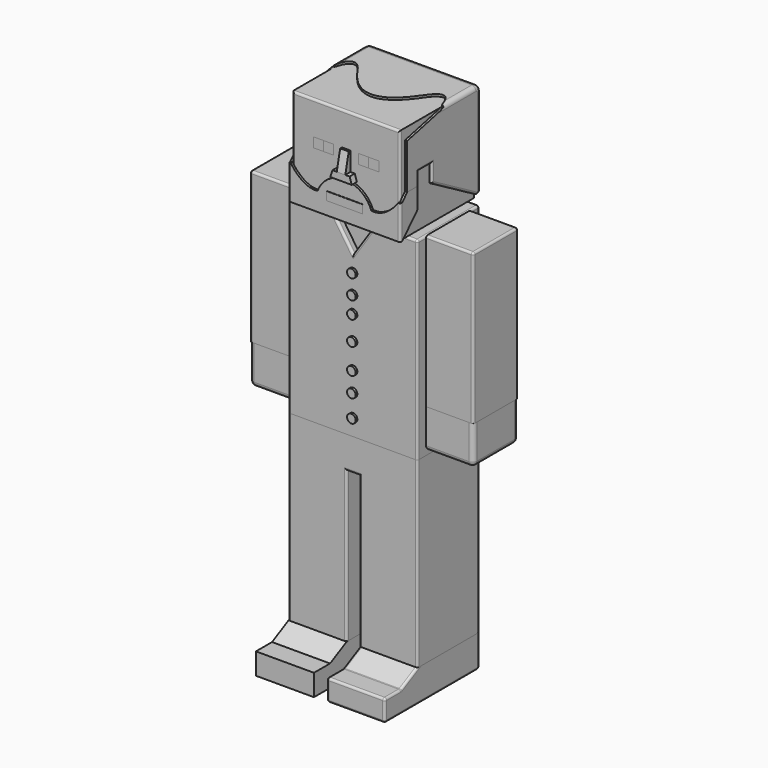
from build123d import *

# Parameters (mm, degrees)
SKETCH_W             = 60
SKETCH_H             = 90
PAD_DEPTH            = 36
POCKET_DEPTH         = 5
POCKET_TAPER         = -9
FILLET018_R          = 1
PAD001_DEPTH         = 2
SKETCH003_R          = 2
PAD002_DEPTH         = 3
SKETCH004_W          = 50
SKETCH004_H          = 45
PAD003_DEPTH         = 43
SKETCH030_W          = 9.4
SKETCH030_H          = 4.5
POCKET014_DEPTH      = 1
FILLET024_R          = 1
SKETCH005_W          = 52
SKETCH005_H          = 46
PAD004_DEPTH         = 43
POCKET001_DEPTH      = 5
POCKET002_DEPTH      = 52.001
SKETCH009_W          = 1
SKETCH009_H          = 21.5
POCKET003_DEPTH      = 8
POCKET004_DEPTH      = 52.001
SKETCH011_W          = 1
SKETCH011_H          = 21.5
POCKET005_DEPTH      = 5
FILLET005_R          = 3
FILLET006_R          = 2
FILLET007_R          = 1
FILLET022_R          = 1
FILLET023_R          = 1
SKETCH012_W          = 22
SKETCH012_H          = 70
PAD005_DEPTH         = 26
FILLET016_R          = 1
FILLET017_R          = 1
SKETCH013_W          = 22
SKETCH013_H          = 18
PAD006_DEPTH         = 26
FILLET014_R          = 2
FILLET015_R          = 2
PAD007_DEPTH         = 36
FILLET012_R          = 1
FILLET013_R          = 1
PAD008_DEPTH         = 27
FILLET_R             = 1
PAD009_DEPTH         = 27
SKETCH018_W          = 52
SKETCH018_H          = 47
PAD010_DEPTH         = 43
POCKET006_DEPTH      = 100
POCKET007_DEPTH      = 26.001
POCKET007_DEPTH_BACK = 26.001
POCKET008_DEPTH      = 1
POCKET009_DEPTH      = 1
SKETCH024_W          = 50
SKETCH024_H          = 10.65
POCKET010_DEPTH      = 19.001
SKETCH025_W          = 16.8
SKETCH025_H          = 4
POCKET011_DEPTH      = 5
FILLET020_R          = 1
FILLET021_R          = 1
PAD011_DEPTH         = 3
POCKET012_DEPTH      = 5
POCKET013_DEPTH      = 5
SKETCH031_W          = 4.7
SKETCH031_H          = 4.5
PAD012_DEPTH         = 1
SKETCH032_W          = 4.75
SKETCH032_H          = 4.5
PAD013_DEPTH         = 1
SKETCH033_W          = 16.8
SKETCH033_H          = 3.9
PAD014_DEPTH         = 1


with BuildPart() as obj1:
    # Sketch → Pad (new body)
    with BuildSketch(Plane.XZ):
        Rectangle(SKETCH_W, SKETCH_H)
    extrude(amount=PAD_DEPTH)

    # Sketch001 (on Face6 of Pad) → Pocket (cut)
    with BuildSketch(Plane.XZ.offset(36)):
        Polygon((-10, 45), (0, 30), (10, 45), align=None)
    extrude(amount=-POCKET_DEPTH, taper=POCKET_TAPER, mode=Mode.SUBTRACT)

    # Fillet018
    fillet018_edges = [obj1.edges().sort_by_distance(p)[0] for p in [
        (-20, -36, 45),
        (-5, -36, 37.5),
        (5, -36, 37.5),
        (20, -36, 45),
        (30, -36, 0),
        (-30, -36, 0),
        (30, -18, 45),
        (0, 0, 45),
        (30, 0, 0),
        (-30, 0, 0),
    ]]
    fillet(fillet018_edges, radius=FILLET018_R)


with BuildPart() as obj2:
    # Sketch002 → Pad001 (new body)
    with BuildSketch(Plane.XZ):
        Polygon((-10, 45), (10, 45), (0, 30), align=None)
    extrude(amount=PAD001_DEPTH)


with BuildPart() as obj2_1:
    # Body001 placement: moved
    add(obj2.part.moved(Location((0, -31, 0))))


with BuildPart() as obj3:
    # Sketch003 → Pad002 (new body)
    with BuildSketch(Plane.XZ):
        with Locations((0, 22.21)):
            Circle(SKETCH003_R)
        with Locations((0, 13.18)):
            Circle(SKETCH003_R)
        with Locations((0, 5.32)):
            Circle(SKETCH003_R)
        with Locations((0, -5.83)):
            Circle(SKETCH003_R)
        with Locations((0, -17.73)):
            Circle(SKETCH003_R)
        with Locations((0, -26.91)):
            Circle(SKETCH003_R)
        with Locations((0, -37.26)):
            Circle(SKETCH003_R)
    extrude(amount=PAD002_DEPTH)


with BuildPart() as obj3_1:
    # Body002 placement: moved
    add(obj3.part.moved(Location((0, -34, 0))))


with BuildPart() as head:
    # Sketch004 → Pad003 (new body)
    with BuildSketch(Plane.XZ):
        with Locations((0, 67.5)):
            Rectangle(SKETCH004_W, SKETCH004_H)
    extrude(amount=PAD003_DEPTH)

    # Sketch030 (on Face6 of Pad003) → Pocket014 (cut)
    with BuildSketch(Plane.XZ.offset(43)):
        with Locations((-10.522104, 72.25)):
            Rectangle(SKETCH030_W, SKETCH030_H)
        with Locations((10.522104, 72.25)):
            Rectangle(SKETCH030_W, SKETCH030_H)
    extrude(amount=-POCKET014_DEPTH, mode=Mode.SUBTRACT)

    # Fillet024
    fillet024_edges = [head.edges().sort_by_distance(p)[0] for p in [
        (-25, -43, 67.5),
        (0, -43, 90),
        (25, -43, 67.5),
    ]]
    fillet(fillet024_edges, radius=FILLET024_R)


with BuildPart() as head_1:
    # Body003 placement: moved
    add(head.part.moved(Location((0, 3, 0))))


with BuildPart() as hair:
    # Sketch005 → Pad004 (new body)
    with BuildSketch(Plane.XZ):
        with Locations((0, 68)):
            Rectangle(SKETCH005_W, SKETCH005_H)
    extrude(amount=PAD004_DEPTH)

    # Sketch007 (on Face4 of Pad004) → Pocket001 (cut)
    with BuildSketch(Plane(origin=(0, 0, 91), x_dir=(-1, 0, 0), z_dir=(0, 0, 1))):
        with BuildLine():
            add(Edge.make_bspline(
                [(-15.5, 20), (0, 43), (15.5, 20)],
                knots=[0, 0, 0, 1, 1, 1], degree=2))
            add(Edge.make_bspline(
                [(15.5, 20), (21.875217, 10.54), (25, 21.5)],
                knots=[0, 0, 0, 1, 1, 1], degree=2))
            Line((25, 21.5), (25, 43))
            Line((25, 43), (-25, 43))
            Line((-25, 43), (-25, 21.5))
            add(Edge.make_bspline(
                [(-15.5, 20), (-21.875217, 10.54), (-25, 21.5)],
                knots=[0, 0, 0, 1, 1, 1], degree=2))
        make_face()
    extrude(amount=-POCKET001_DEPTH, mode=Mode.SUBTRACT)

    # Sketch008 (on Face1 of Pocket001) → Pocket002 (cut, through all)
    with BuildSketch(Plane(origin=(-26, 0, 0), x_dir=(0, 0, -1), z_dir=(-1, 0, 0))):
        Polygon((-63.99, 43), (-63.99, 36.91), (-69.95, 36.91), (-69.95, 28.72), (-61.59, 28.72), (-45, 0), (-45, 43), align=None)
    extrude(amount=-POCKET002_DEPTH, mode=Mode.SUBTRACT)

    # Sketch009 (on Face10 of Pocket002) → Pocket003 (cut)
    with BuildSketch(Plane(origin=(26, 0, 0), x_dir=(0, 0, 1), z_dir=(1, 0, 0))):
        with Locations((90.5, 32.25)):
            Rectangle(SKETCH009_W, SKETCH009_H)
    extrude(amount=-POCKET003_DEPTH, mode=Mode.SUBTRACT)

    # Sketch010 (on Face10 of Pocket003) → Pocket004 (cut, through all)
    with BuildSketch(Plane(origin=(26, 0, 0), x_dir=(0, 0, 1), z_dir=(1, 0, 0))):
        Polygon((85, 43), (90, 21.5), (90, 43), align=None)
    extrude(amount=-POCKET004_DEPTH, mode=Mode.SUBTRACT)

    # Sketch011 (on Face1 of Pocket004) → Pocket005 (cut)
    with BuildSketch(Plane(origin=(-26, 0, 0), x_dir=(0, 0, -1), z_dir=(-1, 0, 0))):
        with Locations((-90.5, 32.25)):
            Rectangle(SKETCH011_W, SKETCH011_H)
    extrude(amount=-POCKET005_DEPTH, mode=Mode.SUBTRACT)

    # Fillet005
    fillet005_edges = [hair.edges().sort_by_distance(p)[0] for p in [
        (0, 0, 91),
    ]]
    fillet(fillet005_edges, radius=FILLET005_R)

    # Fillet006
    fillet006_edges = [hair.edges().sort_by_distance(p)[0] for p in [
        (-26, 0, 66.5),
        (-26, -12.25, 91),
        (26, -12.25, 91),
        (26, 0, 66.5),
        (0, 0, 45),
    ]]
    fillet(fillet006_edges, radius=FILLET006_R)

    # Fillet007
    fillet007_edges = [hair.edges().sort_by_distance(p)[0] for p in [
        (26, -28.72, 65.77),
        (26, -15.860192, 54.16158),
    ]]
    fillet(fillet007_edges, radius=FILLET007_R)

    # Fillet022
    fillet022_edges = [hair.edges().sort_by_distance(p)[0] for p in [
        (26, -32.815, 69.95),
    ]]
    fillet(fillet022_edges, radius=FILLET022_R)

    # Fillet023
    fillet023_edges = [hair.edges().sort_by_distance(p)[0] for p in [
        (-26, -15.860192, 54.16158),
        (-26, -28.72, 65.77),
        (-26, -32.815, 69.95),
    ]]
    fillet(fillet023_edges, radius=FILLET023_R)


with BuildPart() as hair_1:
    # Body004 placement: moved
    add(hair.part.moved(Location((0, 6, 0))))


with BuildPart() as obj4:
    # Sketch012 → Pad005 (new body)
    with BuildSketch(Plane.XZ):
        with Locations((41, 0)):
            Rectangle(SKETCH012_W, SKETCH012_H)
        with Locations((-41, 0)):
            Rectangle(SKETCH012_W, SKETCH012_H)
    extrude(amount=PAD005_DEPTH)

    # Fillet016
    fillet016_edges = [obj4.edges().sort_by_distance(p)[0] for p in [
        (52, -13, 35),
        (41, 0, 35),
        (41, -26, 35),
        (52, 0, 0),
        (52, -26, 0),
    ]]
    fillet(fillet016_edges, radius=FILLET016_R)

    # Fillet017
    fillet017_edges = [obj4.edges().sort_by_distance(p)[0] for p in [
        (-41, -26, 35),
        (-52, -13, 35),
        (-52, -26, 0),
        (-52, 0, 0),
        (-41, 0, 35),
    ]]
    fillet(fillet017_edges, radius=FILLET017_R)


with BuildPart() as obj4_1:
    # Body005 placement: moved
    add(obj4.part.moved(Location((0, -5, 10))))


with BuildPart() as arms:
    # Sketch013 → Pad006 (new body)
    with BuildSketch(Plane.XZ):
        with Locations((-41, -34)):
            Rectangle(SKETCH013_W, SKETCH013_H)
        with Locations((41, -34)):
            Rectangle(SKETCH013_W, SKETCH013_H)
    extrude(amount=PAD006_DEPTH)

    # Fillet014
    fillet014_edges = [arms.edges().sort_by_distance(p)[0] for p in [
        (-41, -26, -43),
        (-52, -26, -34),
        (-52, -13, -43),
        (-52, 0, -34),
        (-41, 0, -43),
    ]]
    fillet(fillet014_edges, radius=FILLET014_R)

    # Fillet015
    fillet015_edges = [arms.edges().sort_by_distance(p)[0] for p in [
        (41, -26, -43),
        (52, -26, -34),
        (52, -13, -43),
        (52, 0, -34),
        (41, 0, -43),
    ]]
    fillet(fillet015_edges, radius=FILLET015_R)


with BuildPart() as arms_1:
    # Body006 placement: moved
    add(arms.part.moved(Location((0, -5, 0))))


with BuildPart() as pants:
    # Sketch014 → Pad007 (new body)
    with BuildSketch(Plane.XZ):
        Polygon((-30, -45), (-30, -130), (-3, -130), (-3, -60), (3, -60), (3, -130), (30, -130), (30, -45), align=None)
    extrude(amount=PAD007_DEPTH)

    # Fillet012
    fillet012_edges = [pants.edges().sort_by_distance(p)[0] for p in [
        (-30, -36, -87.5),
        (-3, -36, -95),
        (3, -36, -95),
        (0, -36, -60),
        (30, -36, -87.5),
    ]]
    fillet(fillet012_edges, radius=FILLET012_R)

    # Fillet013
    fillet013_edges = [pants.edges().sort_by_distance(p)[0] for p in [
        (-30, 0, -87.5),
        (-3, 0, -95),
        (3, 0, -95),
        (0, 0, -60),
        (30, 0, -87.5),
    ]]
    fillet(fillet013_edges, radius=FILLET013_R)


with BuildPart() as obj5:
    # Sketch015 → Pad008 (new body)
    with BuildSketch(Plane.YZ):
        Polygon((0, -130), (-36, -130), (-45.620719, -135), (-55, -135), (-55, -145), (0, -145), align=None)
    extrude(amount=PAD008_DEPTH)

    # Fillet
    fillet_edges = [obj5.edges().sort_by_distance(p)[0] for p in [
        (27, -55, -140),
        (13.5, -55, -145),
        (27, -27.5, -145),
        (13.5, -55, -135),
        (27, -50.310359, -135),
        (27, -40.810359, -132.5),
        (13.5, -45.620719, -135),
        (0, -27.5, -145),
        (0, -50.310359, -135),
        (0, -40.810359, -132.5),
        (13.5, 0, -145),
        (0, -55, -140),
        (27, 0, -137.5),
        (0, 0, -137.5),
    ]]
    fillet(fillet_edges, radius=FILLET_R)


with BuildPart() as obj5_1:
    # Body009 placement: moved
    add(obj5.part.moved(Location((3, 0, 0))))


with BuildPart() as obj6:
    # Sketch016 → Pad009 (new body)
    with BuildSketch(Plane.YZ):
        Polygon((0, -130), (-36, -130), (-45.620719, -135), (-55, -135), (-55, -145), (0, -145), align=None)
    extrude(amount=PAD009_DEPTH)


with BuildPart() as obj6_1:
    # Body010 placement: moved
    add(obj6.part.moved(Location((-30, 0, 0))))


with BuildPart() as beard:
    # Sketch018 → Pad010 (new body)
    with BuildSketch(Plane.XZ):
        with Locations((0, 68.5)):
            Rectangle(SKETCH018_W, SKETCH018_H)
    extrude(amount=PAD010_DEPTH)

    # Sketch019 → Pocket006 (cut, symmetric)
    with BuildSketch(Plane.YZ):
        Polygon((-39, 60.85), (-39, 90), (4, 90), (4, 45), (-39, 45), (-29.9, 54.5), (-29.9, 64), (-36, 64), align=None)
    extrude(amount=POCKET006_DEPTH, both=True, mode=Mode.SUBTRACT)

    # Sketch020 → Pocket007 (cut, two sides)
    with BuildSketch(Plane.YZ) as pocket007_sk:
        Polygon((0, 92), (0, 90), (-40, 90), (-40, 45), (-43, 45), (-43, 92), align=None)
    extrude(amount=-POCKET007_DEPTH, mode=Mode.SUBTRACT)
    extrude(pocket007_sk.sketch, amount=POCKET007_DEPTH_BACK, mode=Mode.SUBTRACT)

    # Sketch021 (on Face8 of Pocket007) → Pocket008 (cut)
    with BuildSketch(Plane.XZ.offset(40)):
        Polygon((-26, 60.85), (-26, 90), (26, 90), (26, 60.85), (19.179492, 67.271524), (-19.420872, 67.271524), align=None)
    extrude(amount=-POCKET008_DEPTH, mode=Mode.SUBTRACT)

    # Sketch022 (on Face7 of Pocket008) → Pocket009 (cut)
    with BuildSketch(Plane.XZ.offset(40)):
        with BuildLine():
            Line((-26, 60.85), (-25, 60.85))
            add(Edge.make_bspline(
                [(-25, 60.85), (-18.43, 52), (-12.5, 53.7), (-12.5, 53.7)],
                knots=[0, 0, 0, 0, 1, 1, 1, 1], degree=3))
            ThreePointArc((-12.5, 53.7), (0, 62.3544), (12.5, 53.7))
            add(Edge.make_bspline(
                [(25, 60.85), (18.43, 52), (12.5, 53.7), (12.5, 53.7)],
                knots=[0, 0, 0, 0, 1, 1, 1, 1], degree=3))
            Line((25, 60.85), (26, 60.85))
            Line((26, 60.85), (19.233196, 71.581093))
            Line((19.233196, 71.581093), (-21.772234, 69.384941))
            Line((-21.772234, 69.384941), (-26, 60.85))
        make_face()
    extrude(amount=-POCKET009_DEPTH, mode=Mode.SUBTRACT)

    # Sketch024 (on Face3 of Pocket009) → Pocket010 (cut, through all)
    with BuildSketch(Plane(origin=(0, 0, 64), x_dir=(-1, 0, 0), z_dir=(0, 0, 1))):
        with Locations((0, 33.675)):
            Rectangle(SKETCH024_W, SKETCH024_H)
    extrude(amount=-POCKET010_DEPTH, mode=Mode.SUBTRACT)

    # Sketch025 (on Face7 of Pocket010) → Pocket011 (cut)
    with BuildSketch(Plane.XZ.offset(40)):
        with Locations((0, 53)):
            Rectangle(SKETCH025_W, SKETCH025_H)
    extrude(amount=-POCKET011_DEPTH, mode=Mode.SUBTRACT)

    # Fillet020
    fillet020_edges = [beard.edges().sort_by_distance(p)[0] for p in [
        (-26, -40, 52.925),
    ]]
    fillet(fillet020_edges, radius=FILLET020_R)

    # Fillet021
    fillet021_edges = [beard.edges().sort_by_distance(p)[0] for p in [
        (26, -40, 52.925),
    ]]
    fillet(fillet021_edges, radius=FILLET021_R)


with BuildPart() as beard_1:
    # Body012 placement: moved
    add(beard.part.moved(Location((0, -1, 0))))


with BuildPart() as nose:
    # Sketch026 → Pad011 (new body)
    with BuildSketch(Plane.XZ):
        Polygon((-1.989321, 74.469246), (1.989321, 74.469246), (1.989321, 65.687881), (4.980139, 65.687881), (4.980139, 62.572449), (-4.980139, 62.572449), (-4.980139, 65.687881), (-1.989321, 65.687881), align=None)
    extrude(amount=PAD011_DEPTH)

    # Sketch027 (on Face8 of Pad011) → Pocket012 (cut)
    with BuildSketch(Plane(origin=(-1.989321, 0, 0), x_dir=(0, 0, -1), z_dir=(-1, 0, 0))):
        Polygon((-65.687881, 3), (-74.469246, 1), (-74.469246, 3), align=None)
    extrude(amount=-POCKET012_DEPTH, mode=Mode.SUBTRACT)

    # Sketch028 (on Face11 of Pocket012) → Pocket013 (cut)
    with BuildSketch(Plane.XZ.offset(3)):
        Polygon((-3.995409, 65.687881), (-4.980139, 62.572449), (-4.980139, 65.687881), align=None)
        Polygon((3.995409, 65.687881), (4.980139, 62.572449), (4.980139, 65.687881), align=None)
    extrude(amount=-POCKET013_DEPTH, mode=Mode.SUBTRACT)


with BuildPart() as nose_1:
    # Body013 placement: moved
    add(nose.part.moved(Location((0, -40, 0))))


with BuildPart() as eyes:
    # Sketch031 → Pad012 (new body)
    with BuildSketch(Plane.XZ):
        with Locations((-8.15, 72.25)):
            Rectangle(SKETCH031_W, SKETCH031_H)
        with Locations((8.15, 72.25)):
            Rectangle(SKETCH031_W, SKETCH031_H)
    extrude(amount=PAD012_DEPTH)


with BuildPart() as eyes_1:
    # Body014 placement: moved
    add(eyes.part.moved(Location((0, -39, 0))))


with BuildPart() as cornea:
    # Sketch032 → Pad013 (new body)
    with BuildSketch(Plane.XZ):
        with Locations((-12.875, 72.25)):
            Rectangle(SKETCH032_W, SKETCH032_H)
        with Locations((12.875, 72.25)):
            Rectangle(SKETCH032_W, SKETCH032_H)
    extrude(amount=PAD013_DEPTH)


with BuildPart() as cornea_1:
    # Body015 placement: moved
    add(cornea.part.moved(Location((0, -39, 0))))


with BuildPart() as mouth:
    # Sketch033 → Pad014 (new body)
    with BuildSketch(Plane.XZ):
        with Locations((0, 52.95)):
            Rectangle(SKETCH033_W, SKETCH033_H)
    extrude(amount=PAD014_DEPTH)


with BuildPart() as mouth_1:
    # Body016 placement: moved
    add(mouth.part.moved(Location((0, -40, 0))))


solid = Compound([obj1.part, obj2_1.part, obj3_1.part, head_1.part, hair_1.part, obj4_1.part, arms_1.part, pants.part, obj5_1.part, obj6_1.part, beard_1.part, nose_1.part, eyes_1.part, cornea_1.part, mouth_1.part])
